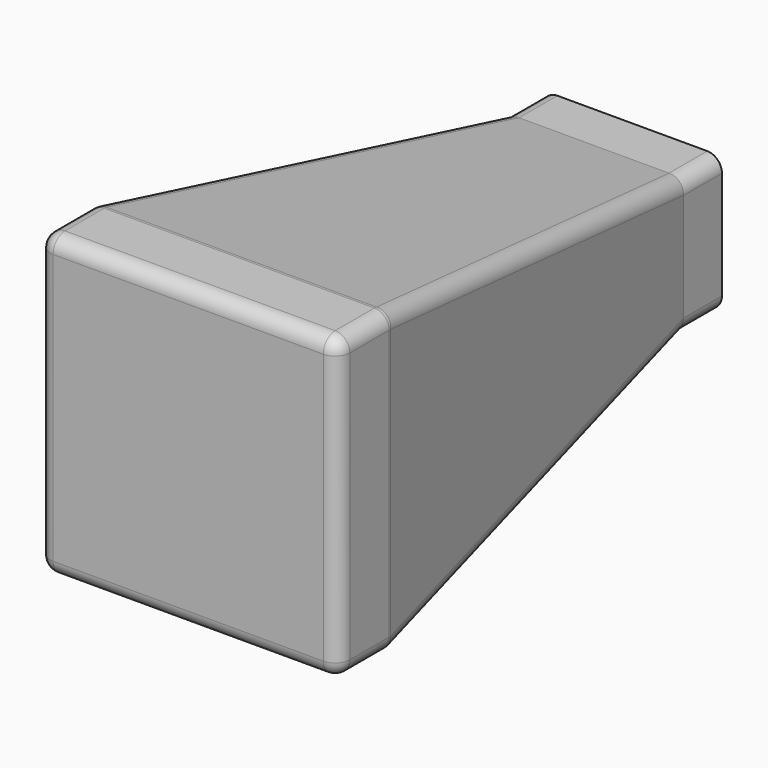
from build123d import *

# Parameters (mm, degrees)
SKETCH038_W             = 110
SKETCH038_H             = 110
PAD036_DEPTH            = 220
POCKET013_DEPTH         = 158
POCKET026_DEPTH         = 158
THICKNESS001_T          = 6
SKETCH042_W             = 5
SKETCH042_H             = 5
PAD023_DEPTH            = 110
BODY008_PLACEMENT_ANGLE = 90


with BuildPart() as part:
    # Sketch038 → Pad036 (new body)
    with BuildSketch(Plane.XY):
        Rectangle(SKETCH038_W, SKETCH038_H)
    extrude(amount=PAD036_DEPTH)

    # Sketch039 (on Face3 of Pad036) → Pocket013 (cut)
    with BuildSketch(Plane.XZ.offset(55)):
        Polygon((-55, 20), (-30.5, 200), (-30.5, 220), (-55, 220), align=None)
        Polygon((30.5, 220), (55, 220), (55, 20), (30.5, 200), align=None)
    extrude(amount=-POCKET013_DEPTH, mode=Mode.SUBTRACT)

    # Sketch062 (on DatumPlane) → Pocket026 (cut)
    with BuildSketch(Plane.YZ.offset(55)):
        Polygon((-55, 20), (-22, 200), (-22, 220), (-55, 220), align=None)
        Polygon((22, 220), (22, 200), (55, 20), (55, 220), align=None)
    extrude(amount=-POCKET026_DEPTH, mode=Mode.SUBTRACT)

    # Thickness001
    thickness001_openings = [part.faces().sort_by_distance(p)[0] for p in [
        (0, 0, 220),
    ]]
    offset(amount=THICKNESS001_T, openings=thickness001_openings)

    # Sketch042 → Pad023 (join)
    with BuildSketch(Plane(origin=(0, -55, 0), x_dir=(-1, 0, 0), z_dir=(0, 1, 0))):
        with Locations((-52.5, 6.5)):
            Rectangle(SKETCH042_W, SKETCH042_H)
        with Locations((52.5, 6.5)):
            Rectangle(SKETCH042_W, SKETCH042_H)
    extrude(amount=PAD023_DEPTH)


with BuildPart() as part_1:
    # Body008 placement: moved
    add(part.part.moved(Location((-0.100429, -201, -6.066442))).rotate(Axis((-0.100429, -201, -6.066442), (-1, 0, 0)), BODY008_PLACEMENT_ANGLE))


solid = part_1.part
